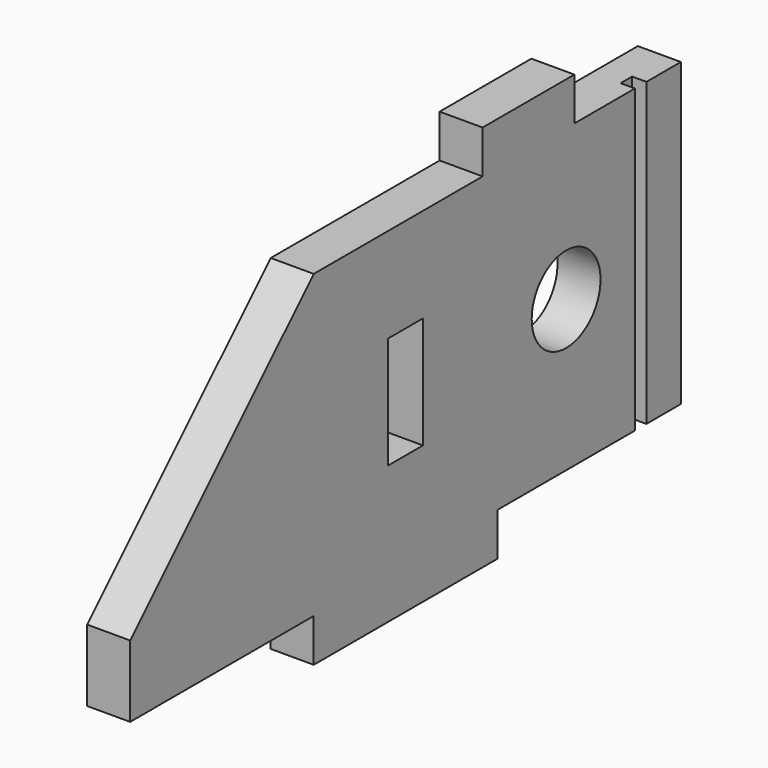
from build123d import *

# Parameters (mm, degrees)
F0_W      = 304.8
F0_H      = 152.4
F1_DEPTH  = 19.05
F2_W      = 101.6
F2_H      = 19.05
F3_DEPTH  = 19.051
F4_W      = 19.304
F4_H      = 49.53
F5_DEPTH  = 19.051
F6_W      = 6.35
F6_H      = 6.35
F7_DEPTH  = 152.401
F9_DEPTH  = 19.051
F10_R     = 19.05
F11_DEPTH = 19.051
F12_W     = 50.8
F12_H     = 19.05
F13_DEPTH = 19.05


with BuildPart() as f1:
    # F0 (on Right) → F1 (new body)
    with BuildSketch(Plane.YZ):
        with Locations((-96.171215, -95.702616)):
            Rectangle(F0_W, F0_H)
    extrude(amount=F1_DEPTH)

    # F2 (on face) → F3 (cut, through all)
    with BuildSketch(Plane.YZ.offset(19.05)):
        with Locations((-197.771215, -162.377616)):
            Rectangle(F2_W, F2_H)
        with Locations((5.428785, -162.377616)):
            Rectangle(F2_W, F2_H)
    extrude(amount=-F3_DEPTH, mode=Mode.SUBTRACT)

    # F4 (on face) → F5 (cut, through all)
    with BuildSketch(Plane.YZ.offset(19.05)):
        with Locations((-96.171215, -86.177616)):
            Rectangle(F4_W, F4_H)
    extrude(amount=-F5_DEPTH, mode=Mode.SUBTRACT)

    # F6 (on face) → F7 (cut, through all)
    with BuildSketch(Plane.XY.offset(-19.502616)):
        with Locations((15.875, 34.003785)):
            Rectangle(F6_W, F6_H)
    extrude(amount=-F7_DEPTH, mode=Mode.SUBTRACT)

    # F8 (on face) → F9 (cut, through all)
    with BuildSketch(Plane.YZ.offset(19.05)):
        Polygon((-146.971215, -19.502616), (-248.571215, -19.502616), (-248.571215, -121.102616), align=None)
    extrude(amount=-F9_DEPTH, mode=Mode.SUBTRACT)

    # F10 (on face) → F11 (cut, through all)
    with BuildSketch(Plane(origin=(0, 0, 0), x_dir=(0, -1, 0), z_dir=(-1, 0, 0))):
        with Locations((7.271215, -86.177616)):
            Circle(F10_R)
    extrude(amount=-F11_DEPTH, mode=Mode.SUBTRACT)

    # F12 (on face) → F13 (join)
    with BuildSketch(Plane.YZ.offset(19.05)):
        with Locations((-28.099215, -9.977616)):
            Rectangle(F12_W, F12_H)
    extrude(amount=-F13_DEPTH)


solid = f1.part
